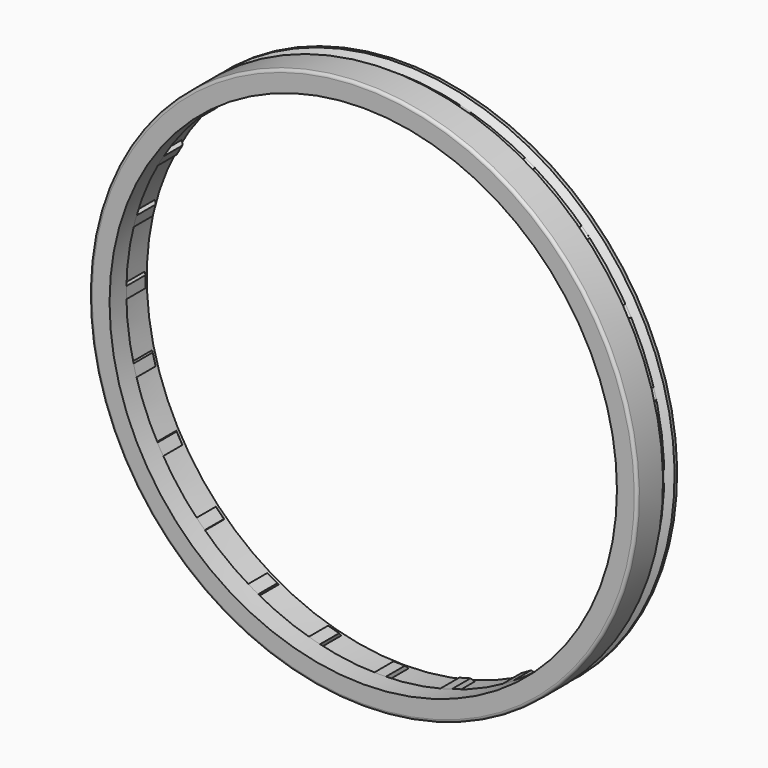
from build123d import *

# Parameters (mm, degrees)
POCKET_DEPTH          = 2
POLARPATTERN001_COUNT = 24
SKETCH007_R           = 5.3
POCKET001_DEPTH       = 529.775193
POCKET001_DEPTH_BACK  = 529.775193
POLARPATTERN002_COUNT = 3
SKETCH008_W           = 0.1
SKETCH008_H           = 100
POCKET002_DEPTH       = 18.251
POCKET002_DEPTH_BACK  = 18.251
POCKET003_DEPTH       = 2
POLARPATTERN003_COUNT = 24


with BuildPart() as body005:
    # Sketch005 → Revolution (revolve)
    with BuildSketch(Plane.YZ):
        Polygon((-18.25, -85), (-18.25, -89.5), (-7.15, -89.5), (-3.65, -81), (-0.15, -81), (3.35, -89.5), (18.25, -89.5), (18.25, -85), (3.85, -85), (3.85, -72), (-7.65, -72), (-7.65, -85), align=None)
    revolve(axis=Axis((0, 0, 0), (0, 1, 0)))

    # Sketch006 → Pocket (cut, symmetric)
    with BuildSketch(Plane.YZ):
        Polygon((-20, 101.9), (-20, 88), (-9.9, 88), (-1.9, 96), (6.1, 88), (20, 88), (20, 101.9), align=None)
    pocket = extrude(amount=POCKET_DEPTH, both=True, mode=Mode.SUBTRACT)

    # PolarPattern001: Pocket ×24 about axis
    polarpattern001_axis = Axis((0, 0, 0), (0, 1, 0))
    for i in range(1, POLARPATTERN001_COUNT):
        add(pocket.rotate(polarpattern001_axis, i * 360 / POLARPATTERN001_COUNT), mode=Mode.SUBTRACT)

    # Sketch007 → Pocket001 (cut, two sides)
    with BuildSketch(Plane.XZ) as pocket001_sk:
        with Locations((0, -72.5)):
            Circle(SKETCH007_R)
        with BuildLine():
            ThreePointArc((60, 49.053542), (0, 77.5), (-60, 49.053542))
            Line((-60, 49.053542), (0, -60))
            Line((0, -60), (60, 49.053542))
        make_face()
    pocket001 = extrude(amount=-POCKET001_DEPTH, mode=Mode.SUBTRACT) + extrude(pocket001_sk.sketch, amount=POCKET001_DEPTH_BACK, mode=Mode.SUBTRACT)

    # PolarPattern002: Pocket001 ×3 about axis
    polarpattern002_axis = Axis((0, 0, 0), (0, -1, 0))
    for i in range(1, POLARPATTERN002_COUNT):
        add(pocket001.rotate(polarpattern002_axis, i * 360 / POLARPATTERN002_COUNT), mode=Mode.SUBTRACT)

    # Sketch008 → Pocket002 (cut, two sides)
    with BuildSketch(Plane.XZ) as pocket002_sk:
        with Locations((0, 50)):
            Rectangle(SKETCH008_W, SKETCH008_H)
    extrude(amount=-POCKET002_DEPTH, mode=Mode.SUBTRACT)
    extrude(pocket002_sk.sketch, amount=POCKET002_DEPTH_BACK, mode=Mode.SUBTRACT)


with BuildPart() as outer_rim_narrow:
    # Sketch009 → Revolution001 (revolve)
    with BuildSketch(Plane.YZ):
        with BuildLine():
            Line((-25.5, -88), (-25.5, -94))
            ThreePointArc((-25.5, -94), (-25.207107, -94.707107), (-24.5, -95))
            Line((-24.5, -95), (-14.25, -95))
            Line((-14.25, -95), (-14.25, -93))
            Line((-14.25, -93), (-11.25, -93))
            Line((-9.25, -95), (-11.25, -93))
            Line((-9.25, -95), (-8.5, -95))
            ThreePointArc((-8.5, -95), (-7.792893, -94.707107), (-7.5, -94))
            Line((-7.5, -94), (-7.5, -88))
            Line((-7.5, -88), (-25.5, -88))
        make_face()
    revolve(axis=Axis((0, 0, 0), (0, 1, 0)))

    # Sketch010 → Pocket003 (cut, symmetric)
    with BuildSketch(Plane.YZ):
        Polygon((-14.24, -95), (-14.24, -92), (-12.26, -92), (-11.26, -93), (-11.26, -95), align=None)
    pocket003 = extrude(amount=POCKET003_DEPTH, both=True, mode=Mode.SUBTRACT)

    # PolarPattern003: Pocket003 ×24 about axis
    polarpattern003_axis = Axis((0, 0, 0), (0, 1, 0))
    for i in range(1, POLARPATTERN003_COUNT):
        add(pocket003.rotate(polarpattern003_axis, i * 360 / POLARPATTERN003_COUNT), mode=Mode.SUBTRACT)

    # Cut: cut Body005
    add(body005.part, mode=Mode.SUBTRACT)


solid = outer_rim_narrow.part
